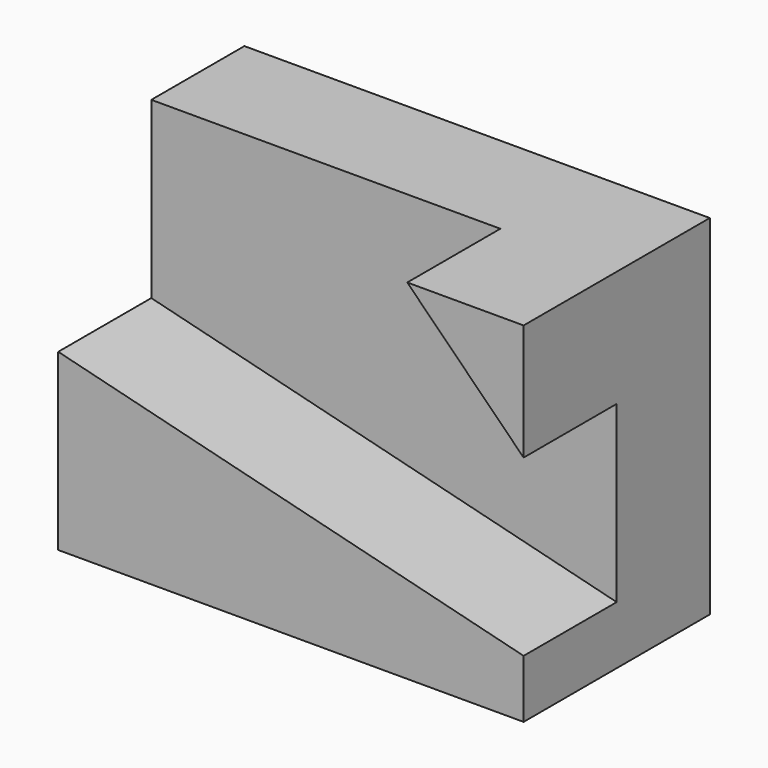
from build123d import *

# Parameters (mm, degrees)
F0_W     = 50.8
F0_H     = 38.1
F1_DEPTH = 12.7
F3_DEPTH = 12.7
F5_DEPTH = 12.7


with BuildPart() as f1:
    # F0 (on Front) → F1 (new body)
    with BuildSketch(Plane.XZ):
        with Locations((-46.846292, 55.045669)):
            Rectangle(F0_W, F0_H)
    extrude(amount=F1_DEPTH)

    # F2 (on face) → F3 (join)
    with BuildSketch(Plane.XZ.offset(12.7)):
        Polygon((-21.446292, 42.345669), (-72.246292, 55.045669), (-72.246292, 35.995669), (-21.446292, 35.995669), align=None)
    extrude(amount=F3_DEPTH)

    # F4 (on face) → F5 (join)
    with BuildSketch(Plane.XZ.offset(12.7)):
        Polygon((-34.146292, 74.095669), (-21.446292, 61.395669), (-21.446292, 74.095669), align=None)
    extrude(amount=F5_DEPTH)


solid = f1.part
